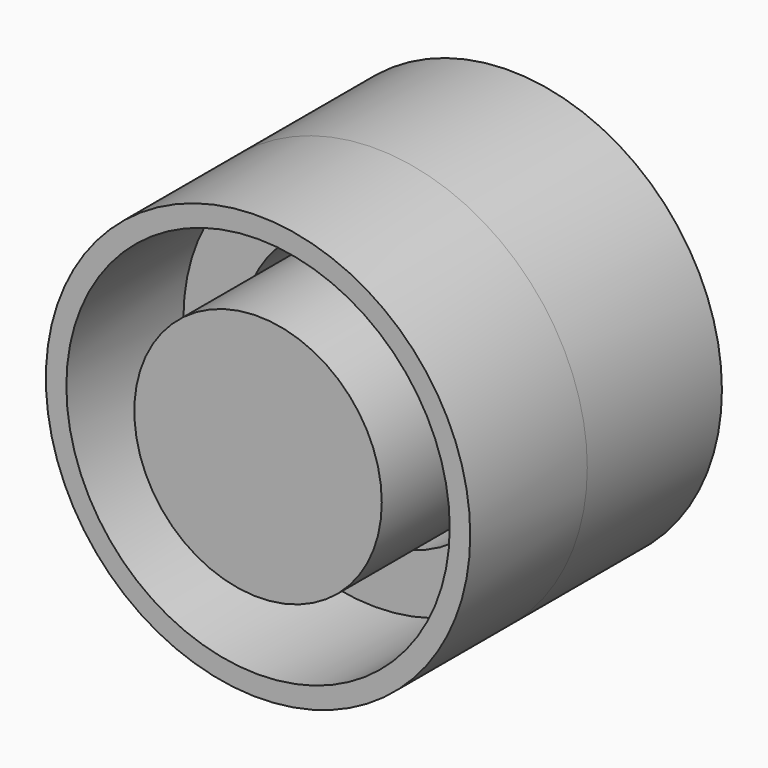
from build123d import *

# Parameters (mm, degrees)
F0_R      = 11.1651505915
F1_DEPTH  = 25.4
F0_R_2    = 21.478588928
F1_FACE_R = 11.1651505915
F2_DEPTH  = 25.4
F3_R      = 36.8347445055
F3_R_2    = 23.4004283817
F4_DEPTH  = 29.21
F5_R      = 36.8347445055
F5_R_2    = 33.2745729173
F6_DEPTH  = 25.4


with BuildPart() as f1:
    # F0 (on Front) → F1 (new body)
    with BuildSketch(Plane.XZ):
        Circle(F0_R)
    extrude(amount=-F1_DEPTH)

    # F0 (on Front) + F1_face (on face) → F2 (join)
    with BuildSketch(Plane.XZ):
        Circle(F0_R_2)
        Circle(F0_R, mode=Mode.SUBTRACT)
    with BuildSketch(Plane.XZ):
        Circle(F1_FACE_R)
    extrude(amount=F2_DEPTH)


with BuildPart() as f4:
    # F3 (on Front) → F4 (new body)
    with BuildSketch(Plane.XZ):
        Circle(F3_R)
        Circle(F3_R_2, mode=Mode.SUBTRACT)
    extrude(amount=-F4_DEPTH)

    # F5 (on face) → F6 (join)
    with BuildSketch(Plane.XZ):
        Circle(F5_R)
        Circle(F5_R_2, mode=Mode.SUBTRACT)
    extrude(amount=F6_DEPTH)


solid = Compound([f1.part, f4.part])
